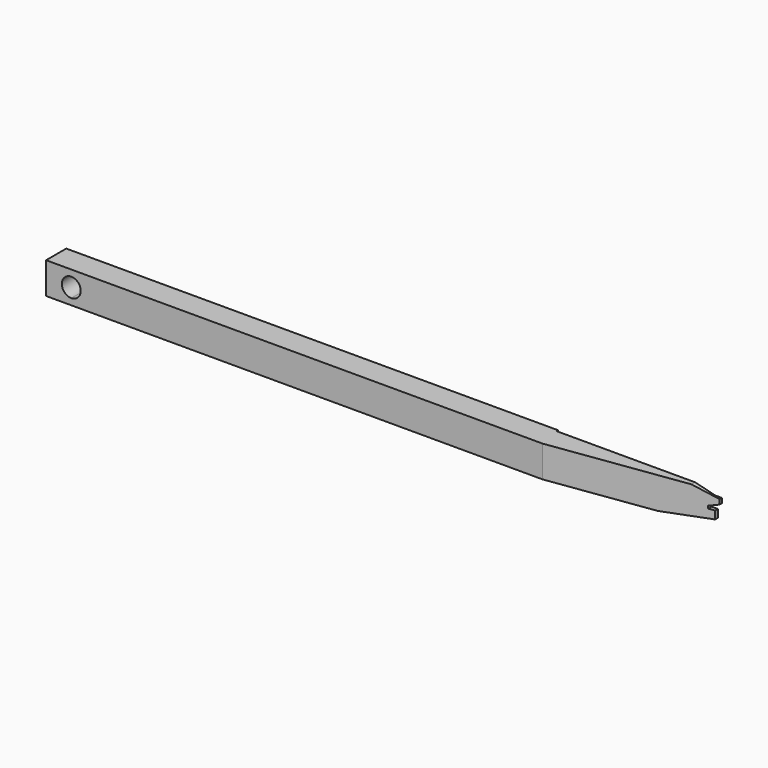
from build123d import *

# Parameters (mm, degrees)
F0_W      = 104
F0_H      = 5
F1_DEPTH  = 4
F3_DEPTH  = 4
F4_W      = 0.65
F4_H      = 3.25
F5_DEPTH  = 4
F7_DEPTH  = 4
F8_W      = 1
F8_H      = 0.4
F9_DEPTH  = 4
F10_W     = 0.65
F10_H     = 0.6
F11_DEPTH = 4
F13_DEPTH = 4
F15_DEPTH = 4
F17_DEPTH = 5.001
F18_R     = 0.1
F20_DEPTH = 0.3


with BuildPart() as f1:
    # F0 (on Front) → F1 (new body)
    with BuildSketch(Plane.XZ):
        Rectangle(F0_W, F0_H)
    extrude(amount=F1_DEPTH)

    # F2 (on face) → F3 (cut, through all)
    with BuildSketch(Plane.XZ.offset(4)):
        with BuildLine():
            ThreePointArc((-48, -1.5), (-46.9393398282, -1.0606601718), (-46.5, 0))
            ThreePointArc((-46.5, 0), (-49.0606601718, 1.0606601718), (-48, -1.5))
        make_face()
    extrude(amount=-F3_DEPTH, mode=Mode.SUBTRACT)

    # F4 (on face) → F5 (cut, through all)
    with BuildSketch(Plane.XZ.offset(4)):
        with Locations((51.675, -0.875)):
            Rectangle(F4_W, F4_H)
    extrude(amount=-F5_DEPTH, mode=Mode.SUBTRACT)

    # F6 (on face) → F7 (cut, through all)
    with BuildSketch(Plane.XZ.offset(4)):
        Polygon((43.205653572, -2.5), (51.35, -2.5), (51.35, -1.5), align=None)
    extrude(amount=-F7_DEPTH, mode=Mode.SUBTRACT)

    # F8 (on face) → F9 (cut, through all)
    with BuildSketch(Plane.XZ.offset(4)):
        with Locations((50.85, -0.05)):
            Rectangle(F8_W, F8_H)
    extrude(amount=-F9_DEPTH, mode=Mode.SUBTRACT)

    # F10 (on face) → F11 (join)
    with BuildSketch(Plane.XZ.offset(4)):
        with Locations((51.675, 0.45)):
            Rectangle(F10_W, F10_H)
    extrude(amount=-F11_DEPTH)

    # F12 (on face) → F13 (cut, through all)
    with BuildSketch(Plane.XZ.offset(4)):
        Polygon((52, 0.15), (52, 0.75), (50.35, 0.15), align=None)
    extrude(amount=-F13_DEPTH, mode=Mode.SUBTRACT)

    # F14 (on face) → F15 (cut, through all)
    with BuildSketch(Plane.XZ.offset(4)):
        Polygon((52, 1.5), (52, 2.5), (48, 2.5), align=None)
    extrude(amount=-F15_DEPTH, mode=Mode.SUBTRACT)

    # F16 (on face) → F17 (cut, through all)
    with BuildSketch(Plane.XY.offset(2.5)):
        Polygon((52, -4), (52, -0.45), (26.7404374855, -4), align=None)
    extrude(amount=-F17_DEPTH, mode=Mode.SUBTRACT)

    # F18
    f18_edges = [f1.edges().sort_by_distance(p)[0] for p in [
        (50.35, -0.340946, -0.25),
    ]]
    fillet(f18_edges, radius=F18_R)

    # F19 (on face) → F20 (cut)
    with BuildSketch(Plane(origin=(0, 0, 0), x_dir=(-1, 0, 0), z_dir=(0, 1, 0))):
        Polygon((-48, 2.5), (-52, 1.5), (-26, 1.5), (-26, 2.5), align=None)
    extrude(amount=-F20_DEPTH, mode=Mode.SUBTRACT)


solid = f1.part
